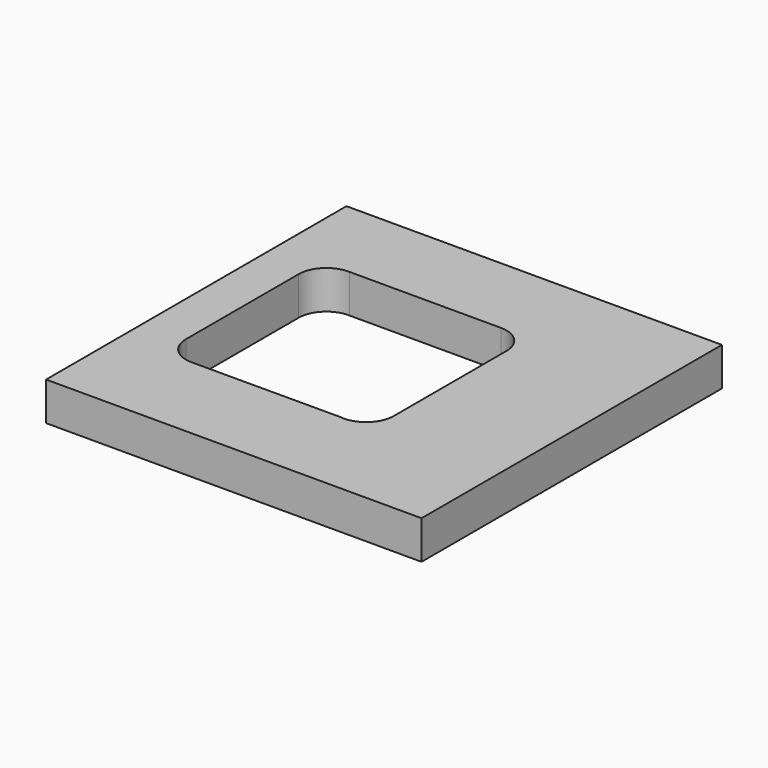
from build123d import *

# Parameters (mm, degrees)
F0_W     = 88
F0_H     = 88
F1_DEPTH = 9


with BuildPart() as f1:
    # F0 (on Top) → F1 (new body)
    with BuildSketch(Plane.XY):
        Rectangle(F0_W, F0_H)
        with BuildLine():
            ThreePointArc((-34, 17.5), (-32.039498, 22.152199), (-27.340629, 23.998046))
            Line((-27.340629, 23.998046), (8.217317, 24))
            ThreePointArc((8.217317, 24), (12.813742, 22.09632), (14.717675, 17.5))
            Line((14.717675, 17.5), (14.717675, -15.522273))
            ThreePointArc((14.717675, -15.522273), (13.127514, -19.781789), (9.135066, -21.957209))
            ThreePointArc((9.135066, -21.957209), (8.229219, -22.022263), (7.323146, -21.960427))
            Line((7.323146, -21.960427), (-27.476912, -22.022232))
            ThreePointArc((-27.476912, -22.022232), (-27.488456, -22.022263), (-27.5, -22.022273))
            ThreePointArc((-27.5, -22.022273), (-32.096194, -20.118467), (-34, -15.522273))
            Line((-34, -15.522273), (-34, 17.5))
        make_face(mode=Mode.SUBTRACT)
    extrude(amount=F1_DEPTH)


solid = f1.part
